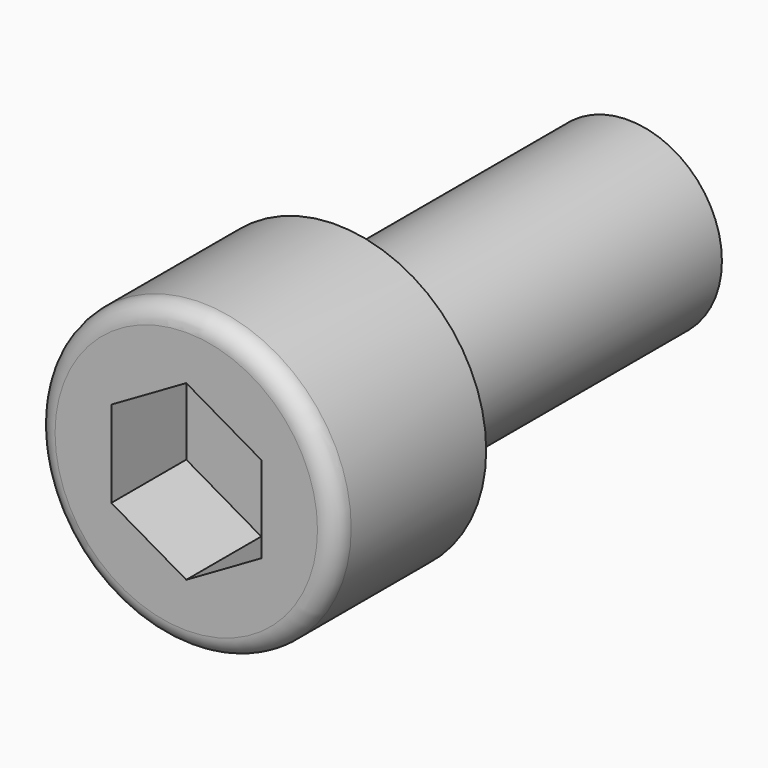
from build123d import *

# Parameters (mm, degrees)
POCKET_DEPTH = 5


with BuildPart() as part:
    # Sketch → Revolution (revolve)
    with BuildSketch(Plane.XY):
        with BuildLine():
            Line((5, 0), (8, 0))
            Line((8, 0), (8, -9))
            ThreePointArc((7, -10), (7.707107, -9.707107), (8, -9))
            Line((7, -10), (0, -10))
            Line((0, -10), (0, 20))
            Line((0, 20), (4.08, 20))
            Line((4.08, 20), (5, 19.468838))
            Line((5, 19.468838), (5, 0))
        make_face()
    revolve(axis=Axis((0, 0, 0), (0, 1, 0)))

    # Sketch001 → Pocket (cut)
    with BuildSketch(Plane.XZ.offset(10)):
        Polygon((-4, 2.309401), (-4, -2.309401), (0, -4.618802), (4, -2.309401), (4, 2.309401), (0, 4.618802), align=None)
    extrude(amount=-POCKET_DEPTH, mode=Mode.SUBTRACT)


solid = part.part
